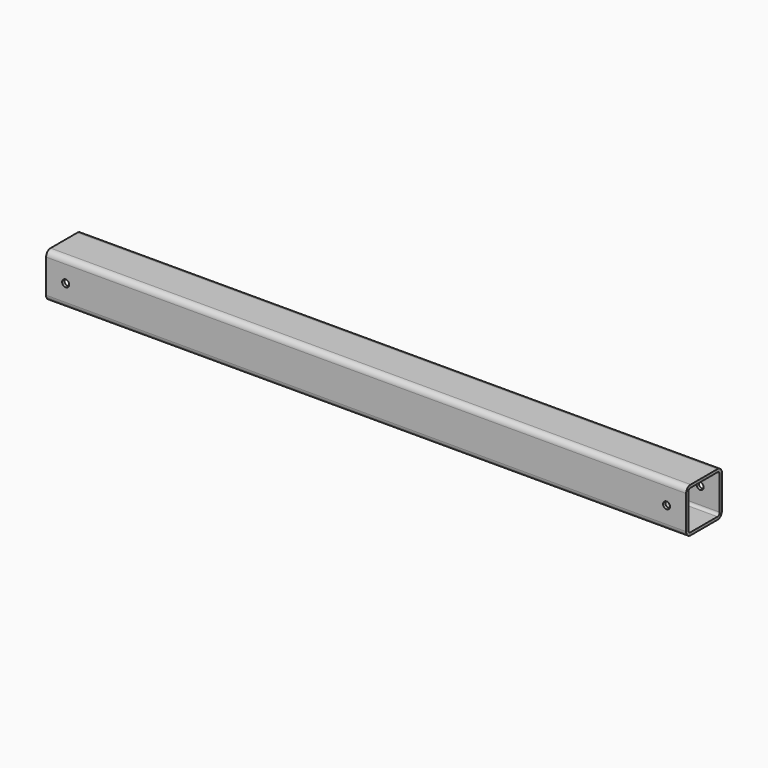
from build123d import *

# Parameters (mm, degrees)
F1_DEPTH = 572.5
F2_R     = 6.25
F3_DEPTH = 80.001


with BuildPart() as f1:
    # F0 (on Right) → F1 (new body, symmetric)
    with BuildSketch(Plane.YZ):
        with BuildLine():
            ThreePointArc((40, 30), (37.071068, 37.071068), (30, 40))
            Line((30, 40), (-30, 40))
            ThreePointArc((-30, 40), (-37.071068, 37.071068), (-40, 30))
            Line((-40, 30), (-40, -30))
            ThreePointArc((-40, -30), (-37.071068, -37.071068), (-30, -40))
            Line((-30, -40), (30, -40))
            ThreePointArc((30, -40), (37.071068, -37.071068), (40, -30))
            Line((40, -30), (40, 30))
        make_face()
        with BuildLine():
            ThreePointArc((30, 35), (33.535534, 33.535534), (35, 30))
            Line((35, 30), (35, -30))
            ThreePointArc((35, -30), (33.535534, -33.535534), (30, -35))
            Line((30, -35), (-30, -35))
            ThreePointArc((-30, -35), (-33.535534, -33.535534), (-35, -30))
            Line((-35, -30), (-35, 30))
            ThreePointArc((-35, 30), (-33.535534, 33.535534), (-30, 35))
            Line((-30, 35), (30, 35))
        make_face(mode=Mode.SUBTRACT)
    extrude(amount=F1_DEPTH, both=True)

    # F2 (on face) → F3 (cut, through all)
    with BuildSketch(Plane.XZ.offset(40)):
        with Locations((537.5, 0)):
            Circle(F2_R)
        with Locations((-537.5, 0)):
            Circle(F2_R)
    extrude(amount=-F3_DEPTH, mode=Mode.SUBTRACT)


solid = f1.part
